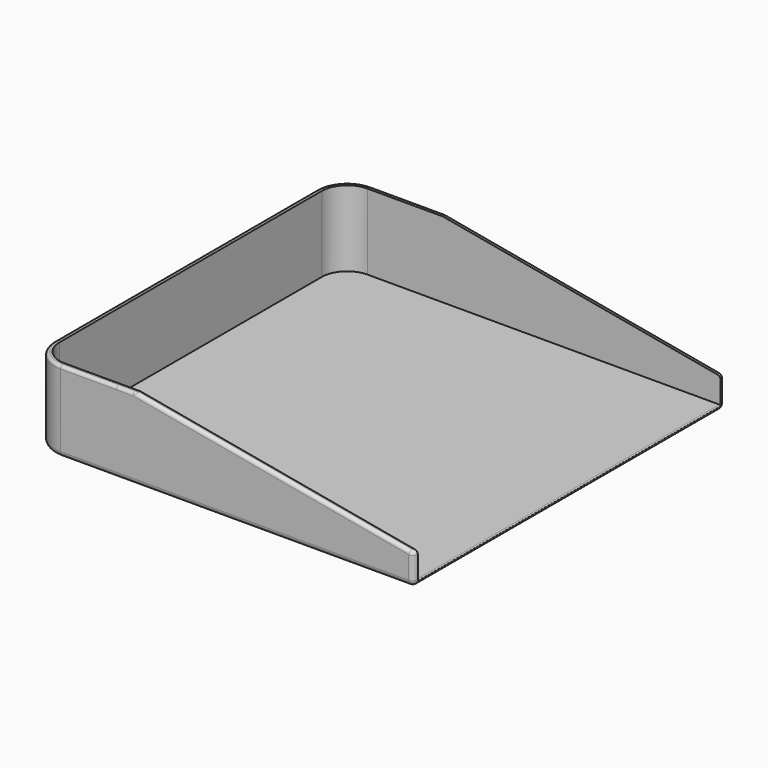
from build123d import *

# Parameters (mm, degrees)
PAD_DEPTH       = 15
THICKNESS_T     = 1
SKETCH001_W     = 75
SKETCH001_H     = 15
POCKET_DEPTH    = 5
POCKET001_DEPTH = 77.001
FILLET_R        = 0.7
FILLET001_R     = 0.6
FILLET002_R     = 0.2


with BuildPart() as part:
    # Sketch → Pad (new body)
    with BuildSketch(Plane.XY):
        with BuildLine():
            Line((-32, 37.5), (37, 37.5))
            Line((37, 37.5), (37, -37.5))
            Line((37, -37.5), (-32, -37.5))
            ThreePointArc((-37, -32.5), (-35.535534, -36.035534), (-32, -37.5))
            Line((-37, -32.5), (-37, 32.5))
            ThreePointArc((-32, 37.5), (-35.535534, 36.035534), (-37, 32.5))
        make_face()
    extrude(amount=PAD_DEPTH)

    # Thickness
    thickness_openings = [part.faces().sort_by_distance(p)[0] for p in [
        (0.069509, 0, 15),
    ]]
    offset(amount=THICKNESS_T, openings=thickness_openings)

    # Sketch001 (on Face11 of Thickness) → Pocket (cut)
    with BuildSketch(Plane.YZ.offset(38)):
        with Locations((0, 7.5)):
            Rectangle(SKETCH001_W, SKETCH001_H)
    extrude(amount=-POCKET_DEPTH, mode=Mode.SUBTRACT)

    # Sketch002 (on Face14 of Pocket) → Pocket001 (cut, through all)
    with BuildSketch(Plane.XZ.offset(38.5)):
        Polygon((-17, 15), (38, 15), (38, 5), align=None)
    extrude(amount=-POCKET001_DEPTH, mode=Mode.SUBTRACT)

    # Fillet
    fillet_edges = [part.edges().sort_by_distance(p)[0] for p in [
        (10, -38.5, 10.090909),
        (10, 38.5, 10.090909),
    ]]
    fillet(fillet_edges, radius=FILLET_R)

    # Fillet001
    fillet001_edges = [part.edges().sort_by_distance(p)[0] for p in [
        (-38, 0, 15),
    ]]
    fillet(fillet001_edges, radius=FILLET001_R)

    # Fillet002
    fillet002_edges = [part.edges().sort_by_distance(p)[0] for p in [
        (38, 0, 0),
    ]]
    fillet(fillet002_edges, radius=FILLET002_R)


solid = part.part
